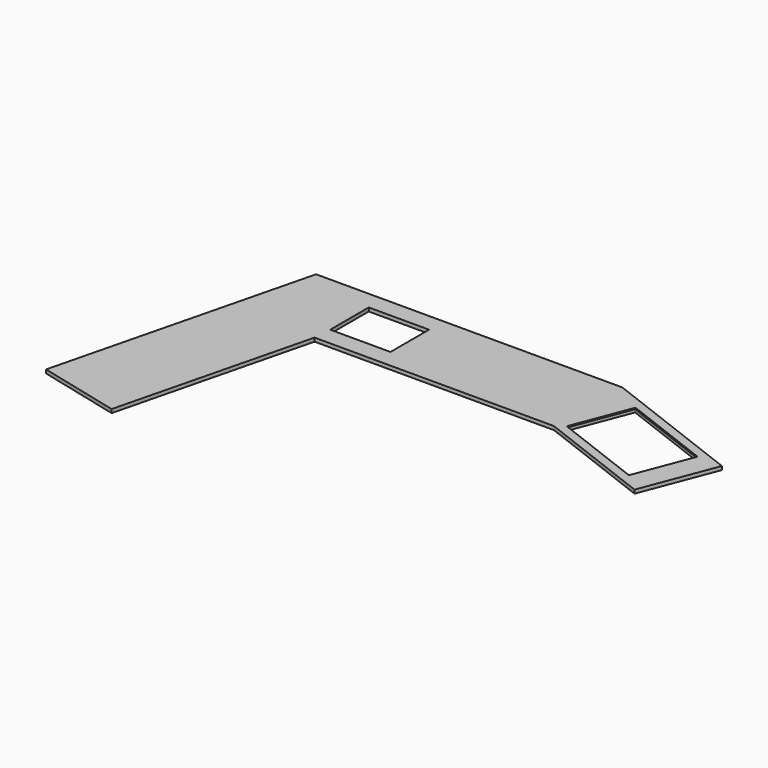
from build123d import *

# Parameters (mm, degrees)
F0_W     = 500
F0_H     = 400
F1_DEPTH = 30
F3_DEPTH = 6.5


with BuildPart() as f1:
    # F0 (on Top) → F1 (new body)
    with BuildSketch(Plane.XY):
        Polygon((-1330.909668, -350), (655.231899, -350), (1620.216804, -720.422999), (1855.306179, -107.99424), (662.190394, 350), (-1877.809606, 350), (-2410.037776, -1784.650598), (-1730.830768, -1953.995925), align=None)
        with Locations((-1070.909668, 0)):
            Rectangle(F0_W, F0_H, mode=Mode.SUBTRACT)
        with BuildLine():
            ThreePointArc((909.144028, 167.369492), (911.778247, 170.14538), (915.60377, 170.245554))
            Line((915.60377, 170.245554), (1636.327859, -106.414503))
            ThreePointArc((1636.327859, -106.414503), (1639.103747, -109.048722), (1639.203922, -112.874245))
            Line((1639.203922, -112.874245), (1462.886891, -572.195814))
            ThreePointArc((1462.886891, -572.195814), (1460.252672, -574.971702), (1456.427149, -575.071877))
            Line((1456.427149, -575.071877), (735.703059, -298.41182))
            ThreePointArc((735.703059, -298.41182), (732.927172, -295.777601), (732.826997, -291.952078))
            Line((732.826997, -291.952078), (909.144028, 167.369492))
        make_face(mode=Mode.SUBTRACT)
    extrude(amount=F1_DEPTH)

    # F2 (on face) → F3 (cut)
    with BuildSketch(Plane.XY.offset(30)):
        with BuildLine():
            Line((1640.703596, -100.596176), (916.245185, 177.497353))
            ThreePointArc((916.245185, 177.497353), (908.594139, 177.297004), (903.325701, 171.745228))
            Line((903.325701, 171.745228), (725.575198, -291.310663))
            ThreePointArc((725.575198, -291.310663), (725.775548, -298.961709), (731.327323, -304.230147))
            Line((731.327323, -304.230147), (1455.785734, -582.323676))
            ThreePointArc((1455.785734, -582.323676), (1463.43678, -582.123326), (1468.705218, -576.571551))
            Line((1468.705218, -576.571551), (1646.455721, -113.515659))
            ThreePointArc((1646.455721, -113.515659), (1646.255371, -105.864613), (1640.703596, -100.596176))
        make_face()
    extrude(amount=-F3_DEPTH, mode=Mode.SUBTRACT)


solid = f1.part
